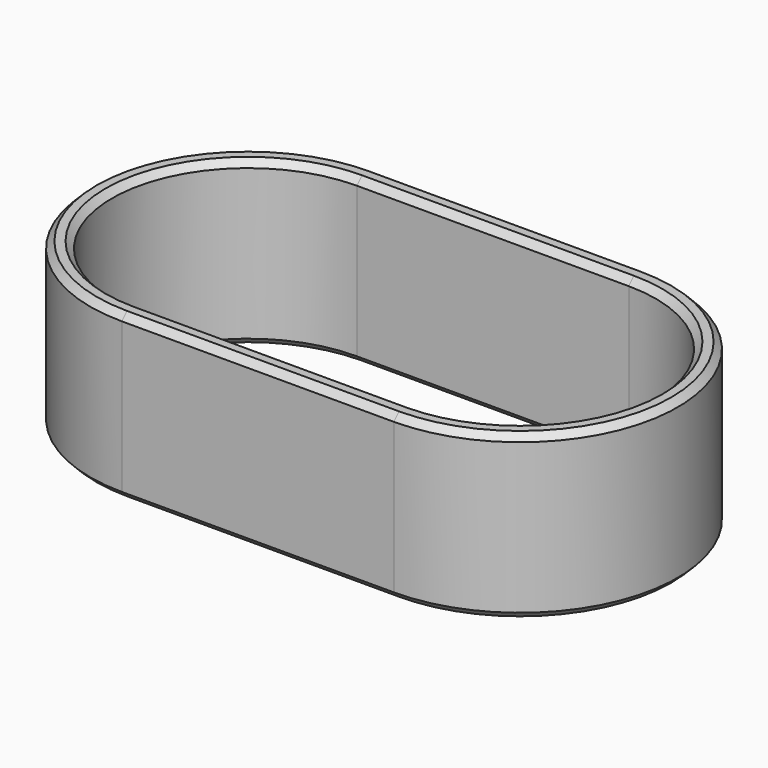
from build123d import *

# Parameters (mm, degrees)
PAD_DEPTH    = 15
CHAMFER_SIZE = 0.6


with BuildPart() as part:
    # Sketch002 → Pad (new body)
    with BuildSketch(Plane.XY):
        with BuildLine():
            ThreePointArc((-12.5, 14.5), (-27, 0), (-12.5, -14.5))
            Line((-12.5, -14.5), (12.5, -14.5))
            ThreePointArc((12.5, -14.5), (27, 0), (12.5, 14.5))
            Line((-12.5, 14.5), (12.5, 14.5))
        make_face()
        with BuildLine():
            ThreePointArc((-12.5, 12.5), (-25, 0), (-12.5, -12.5))
            Line((-12.5, -12.5), (12.5, -12.5))
            ThreePointArc((12.5, -12.5), (25, 0), (12.5, 12.5))
            Line((-12.5, 12.5), (12.5, 12.5))
        make_face(mode=Mode.SUBTRACT)
    extrude(amount=PAD_DEPTH)

    # Chamfer
    chamfer_edges = [part.edges().sort_by_distance(p)[0] for p in [
        (-27, 0, 15),
        (0, -14.5, 15),
        (27, 0, 15),
        (0, 14.5, 15),
        (-25, 0, 15),
        (0, -12.5, 15),
        (25, 0, 15),
        (0, 12.5, 15),
        (-27, 0, 0),
        (0, -14.5, 0),
        (27, 0, 0),
        (0, 14.5, 0),
        (-25, 0, 0),
        (0, -12.5, 0),
        (25, 0, 0),
        (0, 12.5, 0),
    ]]
    chamfer(chamfer_edges, length=CHAMFER_SIZE)


solid = part.part
